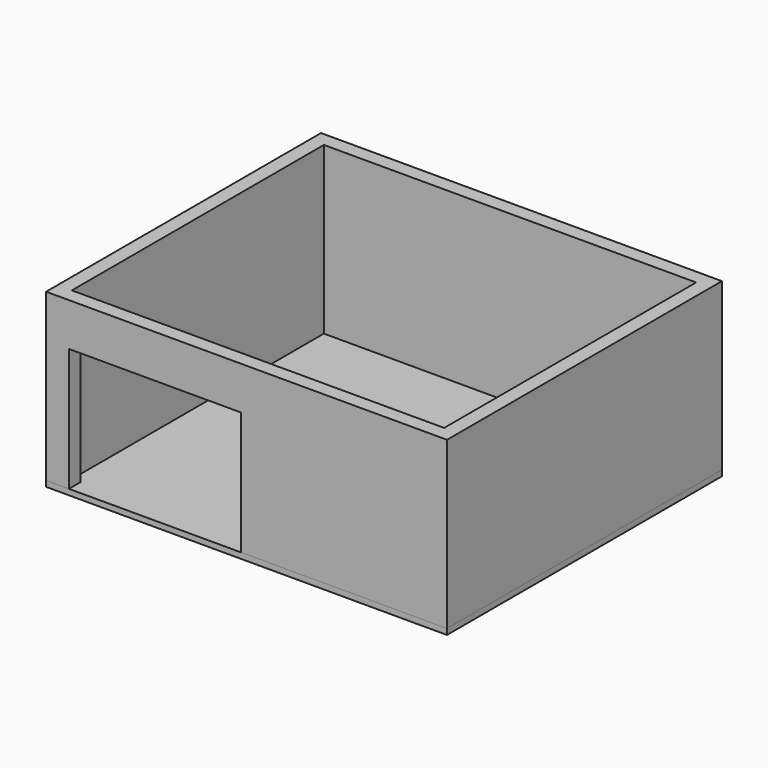
from build123d import *

# Parameters (mm, degrees)
F0_W     = 7000
F0_H     = 6000
F1_DEPTH = 100
F2_W     = 7000
F2_H     = 6000
F2_W_2   = 6500
F2_H_2   = 5500
F3_DEPTH = 2900
F4_W     = 3000
F4_H     = 2150
F5_DEPTH = 250


with BuildPart() as f1:
    # F0 (on Top) → F1 (new body)
    with BuildSketch(Plane.XY):
        Rectangle(F0_W, F0_H)
    extrude(amount=F1_DEPTH)


with BuildPart() as f3:
    # F2 (on face) → F3 (new body)
    with BuildSketch(Plane.XY.offset(100)):
        Rectangle(F2_W, F2_H)
        Rectangle(F2_W_2, F2_H_2, mode=Mode.SUBTRACT)
    extrude(amount=F3_DEPTH)

    # F4 (on face) → F5 (cut, through all)
    with BuildSketch(Plane.XZ.offset(3000)):
        with Locations((-1600, 1175)):
            Rectangle(F4_W, F4_H)
    extrude(amount=-F5_DEPTH, mode=Mode.SUBTRACT)


solid = Compound([f1.part, f3.part])
